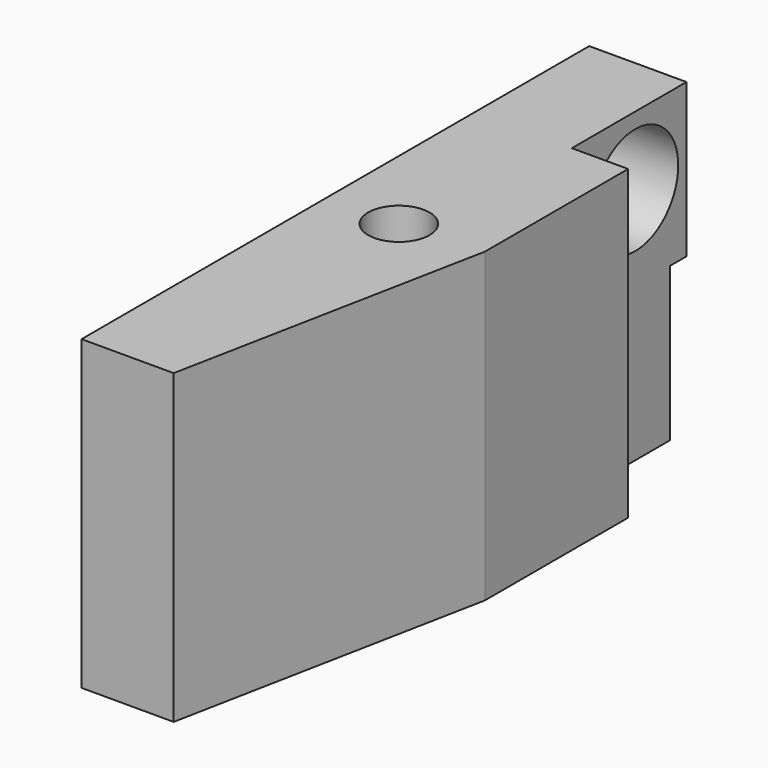
from build123d import *

# Parameters (mm, degrees)
F1_DEPTH  = 15
F3_DEPTH  = 15
F4_SIZE   = 2.5
F5_R      = 5.25
F6_DEPTH  = 15
F7_R      = 3
F8_DEPTH  = 35
F9_R      = 6.25
F10_DEPTH = 2


with BuildPart() as f1:
    # F0 (on Top) → F1 (new body)
    with BuildSketch(Plane.XY):
        Polygon((0, 62), (0, 0), (9, 0), (15, 30.5), (15, 48), (9.5, 48), (9.5, 62), align=None)
    extrude(amount=F1_DEPTH)

    # F2 (on face) → F3 (join)
    with BuildSketch(Plane(origin=(0, 0, 0), x_dir=(1, 0, 0), z_dir=(0, 0, -1))):
        Polygon((4.496674, -60), (9.5, -60), (9.5, -48), (15, -48), (15, -30.5), (9, 0), (0, 0), (0, -34), (4.496674, -34), align=None)
    extrude(amount=F3_DEPTH)

    # F4
    f4_edges = [f1.edges().sort_by_distance(p)[0] for p in [
        (4.496674, 60, -7.5),
    ]]
    chamfer(f4_edges, length=F4_SIZE)

    # F5 (on face) → F6 (cut)
    with BuildSketch(Plane(origin=(0, 0, 0), x_dir=(0, -1, 0), z_dir=(-1, 0, 0))):
        with Locations((-55.745944, 8.24335)):
            Circle(F5_R)
    extrude(amount=-F6_DEPTH, mode=Mode.SUBTRACT)

    # F7 (on face) → F8 (cut)
    with BuildSketch(Plane.XY.offset(15)):
        with Locations((7, 30)):
            Circle(F7_R)
    extrude(amount=-F8_DEPTH, mode=Mode.SUBTRACT)

    # F9 (on face) → F10 (cut)
    with BuildSketch(Plane(origin=(0, 0, -15), x_dir=(1, 0, 0), z_dir=(0, 0, -1))):
        with Locations((7, -30)):
            Circle(F9_R)
    extrude(amount=-F10_DEPTH, mode=Mode.SUBTRACT)


solid = f1.part
